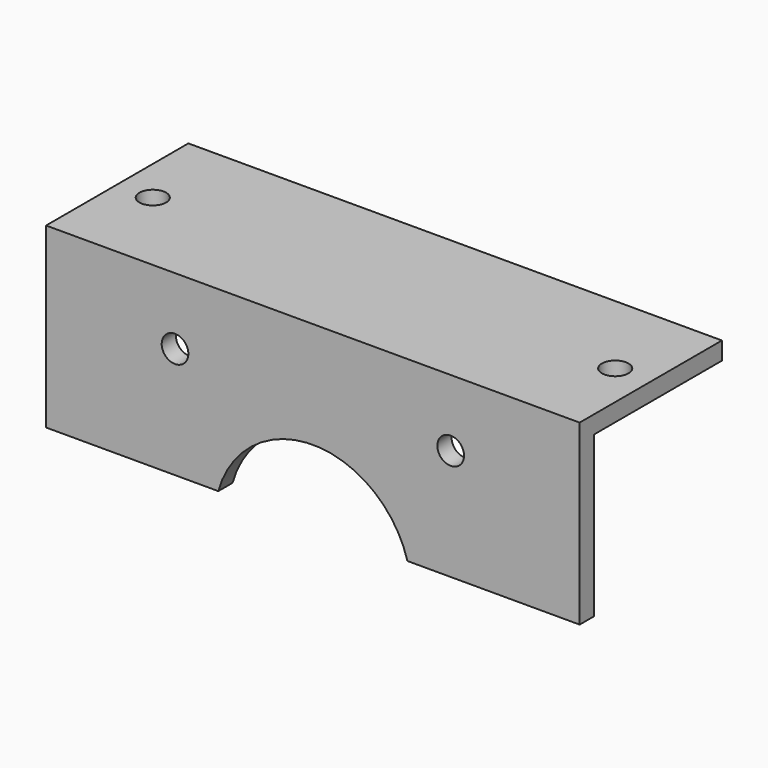
from build123d import *

# Parameters (mm, degrees)
PAD_DEPTH                = 30
PAD_DEPTH_BACK           = 30
SKETCH001_R              = 11.05
SKETCH001_R_2            = 1.5
POCKET_DEPTH             = 5.54
SKETCH002_R              = 1.5
POCKET001_DEPTH          = 20.001
CLONE001_PITCH_ANGLE     = 90
CLONE001_PLACEMENT_ANGLE = -90


with BuildPart() as part:
    # Sketch → Pad (new body, two sides)
    with BuildSketch(Plane.XZ) as pad_sk:
        Polygon((-10, -20), (-10, 0), (10, 0), (10, -2), (-8, -2), (-8, -20), align=None)
    extrude(amount=PAD_DEPTH)
    extrude(pad_sk.sketch, amount=-PAD_DEPTH_BACK)

    # Sketch001 (on Face4 of Pad) → Pocket (cut)
    with BuildSketch(Plane(origin=(13, 0, -2), x_dir=(1, 0, 0), z_dir=(0, 0, -1))):
        Circle(SKETCH001_R)
        with Locations((-15.5, 15.5)):
            Circle(SKETCH001_R_2)
        with Locations((15.5, 15.5)):
            Circle(SKETCH001_R_2)
        with Locations((15.5, -15.5)):
            Circle(SKETCH001_R_2)
        with Locations((-15.5, -15.5)):
            Circle(SKETCH001_R_2)
    extrude(amount=-POCKET_DEPTH, mode=Mode.SUBTRACT)

    # Sketch002 (on Face1 of Pocket) → Pocket001 (cut, through all)
    with BuildSketch(Plane(origin=(-10, 0, 0), x_dir=(0, 0, -1), z_dir=(-1, 0, 0))):
        with Locations((10, 26)):
            Circle(SKETCH002_R)
        with Locations((10, -26)):
            Circle(SKETCH002_R)
    extrude(amount=-POCKET001_DEPTH, mode=Mode.SUBTRACT)


with BuildPart() as part_1:
    # Clone001 pitch: moved
    add(part.part.rotate(Axis((0, 0, 0), (0, 1, 0)), CLONE001_PITCH_ANGLE))


with BuildPart() as part_2:
    # Clone001 placement: moved
    add(part_1.part.moved(Location((0, 0, -10))).rotate(Axis((0, 0, -10), (0, 0, 1)), CLONE001_PLACEMENT_ANGLE))


solid = part_2.part
